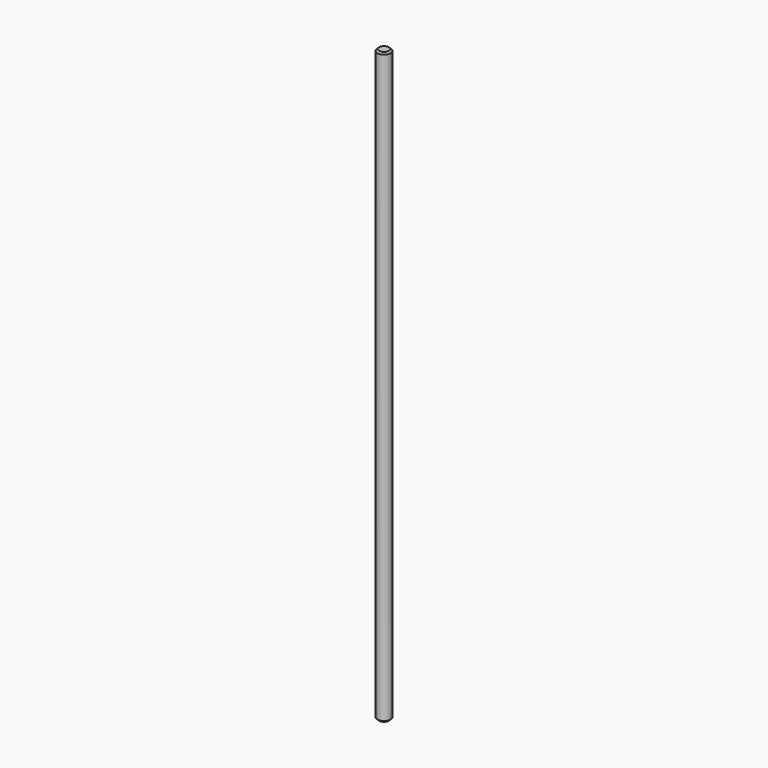
from build123d import *

# Parameters (mm, degrees)
SKETCH_R     = 2
PAD_DEPTH    = 180
CHAMFER_SIZE = 0.5


with BuildPart() as part:
    # Sketch → Pad (new body)
    with BuildSketch(Plane.XY):
        Circle(SKETCH_R)
    extrude(amount=PAD_DEPTH)

    # Chamfer
    chamfer_edges = [part.edges().sort_by_distance(p)[0] for p in [
        (-2, 0, 180),
        (-2, 0, 0),
    ]]
    chamfer(chamfer_edges, length=CHAMFER_SIZE)


solid = part.part
